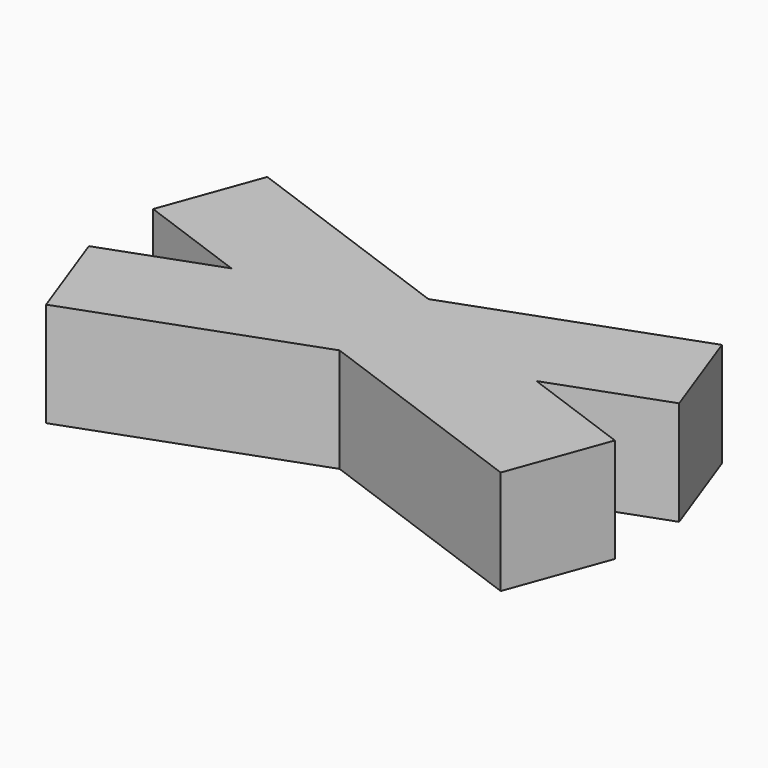
from build123d import *

# Parameters (mm, degrees)
BOX001_W               = 10
BOX001_H               = 2
BOX001_DEPTH           = 2
BOX001_PLACEMENT_ANGLE = 20
BOX_W                  = 10
BOX_H                  = 2
BOX_DEPTH              = 2
BOX_PLACEMENT_ANGLE    = 20


with BuildPart() as cubo2:
    # Box001 → Box001 (new body)
    with BuildSketch(Plane.XY):
        with Locations((5, 1)):
            Rectangle(BOX001_W, BOX001_H)
    extrude(amount=BOX001_DEPTH)


with BuildPart() as cubo2_1:
    # Box001 placement: moved
    add(cubo2.part.moved(Location((-0.040483, 1.770408, 0))).rotate(Axis((-0.040483, 1.770408, 0), (0, 0, -1)), BOX001_PLACEMENT_ANGLE))


with BuildPart() as fusion:
    # Box → Box (new body)
    with BuildSketch(Plane.XY):
        with Locations((5, 1)):
            Rectangle(BOX_W, BOX_H)
    extrude(amount=BOX_DEPTH)


with BuildPart() as fusion_1:
    # Box placement: moved
    add(fusion.part.moved(Location((0.643557, -1.649793, 0))).rotate(Axis((0.643557, -1.649793, 0), (0, 0, 1)), BOX_PLACEMENT_ANGLE))

    # Fusion: union CUBO2
    add(cubo2_1.part)


with BuildPart() as fusion_2:
    # Fusion placement: moved
    add(fusion_1.part.moved(Location((-5, -1, 0))))


solid = fusion_2.part
